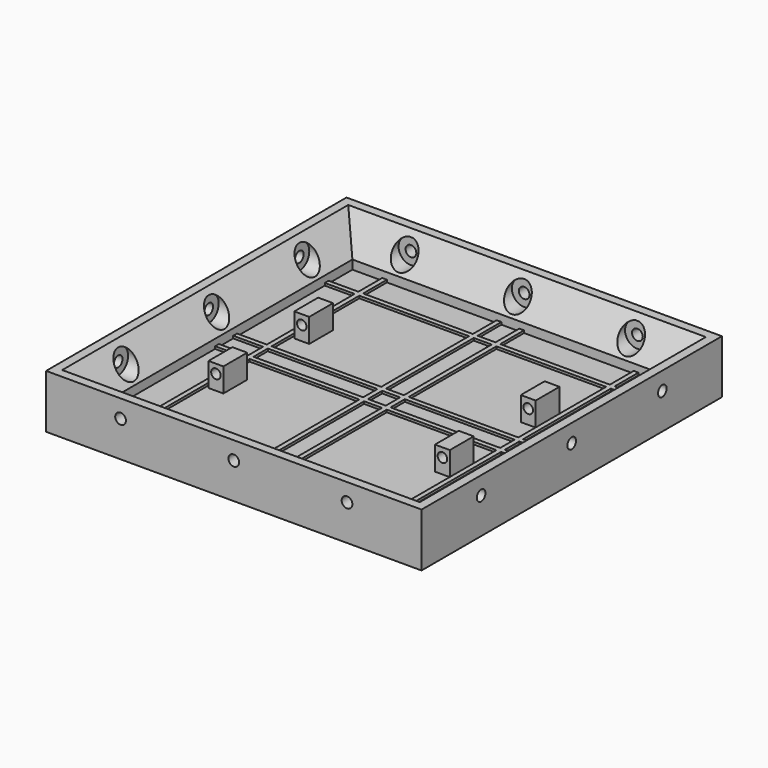
from build123d import *

# Parameters (mm, degrees)
SKETCH_W        = 160.02
SKETCH_H        = 160.02
PAD_DEPTH       = 5.08
SKETCH001_W     = 2.032
SKETCH001_H     = 160.02
PAD001_DEPTH    = 1.016
SKETCH002_W     = 160.02
SKETCH002_H     = 2.032
PAD002_DEPTH    = 1.016
SKETCH003_W     = 6.35
SKETCH003_H     = 12.7
PAD003_DEPTH    = 10.16
SKETCH004_R     = 2.032
POCKET_DEPTH    = 12.7
PAD004_DEPTH    = 160.02
PAD005_DEPTH    = 160.02
SKETCH007_R     = 5.2705
POCKET001_DEPTH = 7.366
SKETCH008_R     = 2.286
POCKET002_DEPTH = 12.7
SKETCH009_R     = 5.2705
POCKET003_DEPTH = 7.366
SKETCH010_R     = 2.286
POCKET004_DEPTH = 12.7
SKETCH011_R     = 5.2705
POCKET005_DEPTH = 7.366
SKETCH012_R     = 5.2705
POCKET006_DEPTH = 7.366
SKETCH013_R     = 2.286
POCKET007_DEPTH = 12.7
SKETCH014_R     = 2.286
POCKET008_DEPTH = 12.7
SKETCH015_W     = 6.35
SKETCH015_H     = 12.7
PAD006_DEPTH    = 10.16
SKETCH016_R     = 2.032
POCKET009_DEPTH = 12.7


with BuildPart() as part:
    # Sketch → Pad (new body)
    with BuildSketch(Plane.XY):
        with Locations((-8.701914, -21.351993)):
            Rectangle(SKETCH_W, SKETCH_H)
    extrude(amount=PAD_DEPTH)

    # Sketch001 (on Face6 of Pad) → Pad001 (join)
    with BuildSketch(Plane.XY.offset(5.08)):
        with Locations((-62.295914, -21.351993)):
            Rectangle(SKETCH001_W, SKETCH001_H)
        with Locations((44.892086, -21.351993)):
            Rectangle(SKETCH001_W, SKETCH001_H)
        with Locations((-13.527914, -21.351993)):
            Rectangle(SKETCH001_W, SKETCH001_H)
        with Locations((-3.875914, -21.351993)):
            Rectangle(SKETCH001_W, SKETCH001_H)
    extrude(amount=PAD001_DEPTH)

    # Sketch002 (on Face9 of Pad001) → Pad002 (join)
    with BuildSketch(Plane.XY.offset(5.08)):
        with Locations((-8.701914, 32.242007)):
            Rectangle(SKETCH002_W, SKETCH002_H)
        with Locations((-8.701914, -16.525993)):
            Rectangle(SKETCH002_W, SKETCH002_H)
        with Locations((-8.701914, -26.177993)):
            Rectangle(SKETCH002_W, SKETCH002_H)
        with Locations((-8.701914, -74.945993)):
            Rectangle(SKETCH002_W, SKETCH002_H)
    extrude(amount=PAD002_DEPTH)

    # Sketch003 (on Face164 of Pad002) → Pad003 (join)
    with BuildSketch(Plane.XY.offset(5.08)):
        with Locations((-56.961914, -44.211993)):
            Rectangle(SKETCH003_W, SKETCH003_H)
        with Locations((39.558086, -44.211993)):
            Rectangle(SKETCH003_W, SKETCH003_H)
    extrude(amount=PAD003_DEPTH)

    # Sketch004 (on Face174 of Pad003) → Pocket (cut)
    with BuildSketch(Plane.XZ.offset(50.561993)):
        with Locations((39.558086, 11.43)):
            Circle(SKETCH004_R)
        with Locations((-56.961914, 11.43)):
            Circle(SKETCH004_R)
    extrude(amount=-POCKET_DEPTH, mode=Mode.SUBTRACT)

    # Sketch005 (on Face14 of Pocket) → Pad004 (join)
    with BuildSketch(Plane.XZ.offset(101.361993)):
        Polygon((-88.711914, 5.08), (-88.711914, 22.86), (-84.901914, 22.86), (-76.011914, 8.89), (-76.011914, 5.08), align=None)
        Polygon((71.308086, 22.86), (67.498086, 22.86), (58.608086, 8.89), (58.608086, 5.08), (71.308086, 5.08), align=None)
    extrude(amount=-PAD004_DEPTH)

    # Sketch006 (on Face3 of Pad004) → Pad005 (join)
    with BuildSketch(Plane.YZ.offset(71.308086)):
        Polygon((-101.361993, 5.08), (-101.361993, 22.86), (-97.551993, 22.86), (-88.661993, 8.89), (-88.661993, 5.08), align=None)
        Polygon((58.658007, 5.08), (58.658007, 22.86), (54.848007, 22.86), (45.958007, 8.89), (45.958007, 5.08), align=None)
    extrude(amount=-PAD005_DEPTH)

    # Sketch007 (on Face66 of Pad005) → Pocket001 (cut)
    with BuildSketch(Plane(origin=(0, -88.661993, 0), x_dir=(-1, 0, 0), z_dir=(0, 1, 0))):
        with Locations((-39.558086, 15.24)):
            Circle(SKETCH007_R)
        with Locations((56.961914, 15.24)):
            Circle(SKETCH007_R)
        with Locations((8.701914, 15.24)):
            Circle(SKETCH007_R)
    extrude(amount=-POCKET001_DEPTH, mode=Mode.SUBTRACT)

    # Sketch008 (on Face66 of Pad005) → Pocket002 (cut)
    with BuildSketch(Plane(origin=(0, -88.661993, 0), x_dir=(-1, 0, 0), z_dir=(0, 1, 0))):
        with Locations((-39.558086, 15.24)):
            Circle(SKETCH008_R)
        with Locations((56.961914, 15.24)):
            Circle(SKETCH008_R)
        with Locations((8.701914, 15.24)):
            Circle(SKETCH008_R)
    extrude(amount=-POCKET002_DEPTH, mode=Mode.SUBTRACT)

    # Sketch009 (on Face53 of Pocket002) → Pocket003 (cut)
    with BuildSketch(Plane.YZ.offset(-76.011914)):
        with Locations((-69.611993, 15.24)):
            Circle(SKETCH009_R)
        with Locations((-21.351993, 15.24)):
            Circle(SKETCH009_R)
        with Locations((26.908007, 15.24)):
            Circle(SKETCH009_R)
    extrude(amount=-POCKET003_DEPTH, mode=Mode.SUBTRACT)

    # Sketch010 (on Face53 of Pocket003) → Pocket004 (cut)
    with BuildSketch(Plane.YZ.offset(-76.011914)):
        with Locations((-69.611993, 15.24)):
            Circle(SKETCH010_R)
        with Locations((-21.351993, 15.24)):
            Circle(SKETCH010_R)
        with Locations((26.908007, 15.24)):
            Circle(SKETCH010_R)
    extrude(amount=-POCKET004_DEPTH, mode=Mode.SUBTRACT)

    # Sketch011 (on Face54 of Pocket004) → Pocket005 (cut)
    with BuildSketch(Plane.XZ.offset(-45.958007)):
        with Locations((-56.961914, 15.24)):
            Circle(SKETCH011_R)
        with Locations((-8.701914, 15.24)):
            Circle(SKETCH011_R)
        with Locations((39.558086, 15.24)):
            Circle(SKETCH011_R)
    extrude(amount=-POCKET005_DEPTH, mode=Mode.SUBTRACT)

    # Sketch012 (on Face75 of Pocket005) → Pocket006 (cut)
    with BuildSketch(Plane(origin=(58.608086, 0, 0), x_dir=(0, -1, 0), z_dir=(-1, 0, 0))):
        with Locations((-26.908007, 15.24)):
            Circle(SKETCH012_R)
        with Locations((21.351993, 15.24)):
            Circle(SKETCH012_R)
        with Locations((69.611993, 15.24)):
            Circle(SKETCH012_R)
    extrude(amount=-POCKET006_DEPTH, mode=Mode.SUBTRACT)

    # Sketch013 (on Face75 of Pocket005) → Pocket007 (cut)
    with BuildSketch(Plane(origin=(58.608086, 0, 0), x_dir=(0, -1, 0), z_dir=(-1, 0, 0))):
        with Locations((-26.908007, 15.24)):
            Circle(SKETCH013_R)
        with Locations((21.351993, 15.24)):
            Circle(SKETCH013_R)
        with Locations((69.611993, 15.24)):
            Circle(SKETCH013_R)
    extrude(amount=-POCKET007_DEPTH, mode=Mode.SUBTRACT)

    # Sketch014 (on Face54 of Pocket004) → Pocket008 (cut)
    with BuildSketch(Plane.XZ.offset(-45.958007)):
        with Locations((-56.961914, 15.24)):
            Circle(SKETCH014_R)
        with Locations((-8.701914, 15.24)):
            Circle(SKETCH014_R)
        with Locations((39.558086, 15.24)):
            Circle(SKETCH014_R)
    extrude(amount=-POCKET008_DEPTH, mode=Mode.SUBTRACT)

    # Sketch015 (on Face164 of Pad002) → Pad006 (join)
    with BuildSketch(Plane.XY.offset(5.08)):
        with Locations((-56.961914, 1.508007)):
            Rectangle(SKETCH015_W, SKETCH015_H)
        with Locations((39.558086, 1.508007)):
            Rectangle(SKETCH015_W, SKETCH015_H)
    extrude(amount=PAD006_DEPTH)

    # Sketch016 (on Face254 of Pad006) → Pocket009 (cut)
    with BuildSketch(Plane(origin=(0, 7.858007, 0), x_dir=(-1, 0, 0), z_dir=(0, 1, 0))):
        with Locations((56.961914, 11.176)):
            Circle(SKETCH016_R)
        with Locations((-39.558086, 11.176)):
            Circle(SKETCH016_R)
    extrude(amount=-POCKET009_DEPTH, mode=Mode.SUBTRACT)


solid = part.part
